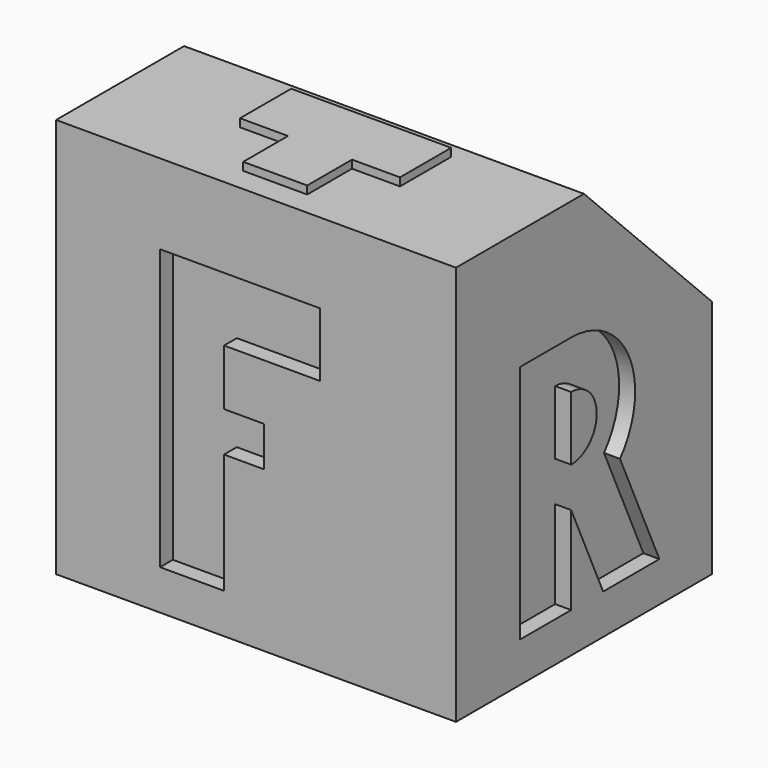
from build123d import *

# Parameters (mm, degrees)
F0_W      = 50
F0_H      = 50
F1_DEPTH  = 40
F2_SIZE   = 20
F4_DEPTH  = 2
F6_DEPTH  = 2
F8_DEPTH  = 2
F10_DEPTH = 1
F12_DEPTH = 2


with BuildPart() as f1:
    # F0 (on Front) → F1 (new body)
    with BuildSketch(Plane.XZ):
        with Locations((-25, 25)):
            Rectangle(F0_W, F0_H)
    extrude(amount=-F1_DEPTH)

    # F2
    f2_edges = [f1.edges().sort_by_distance(p)[0] for p in [
        (-25, 40, 50),
    ]]
    chamfer(f2_edges, length=F2_SIZE)

    # F3 (on face) → F4 (cut)
    with BuildSketch(Plane.XZ):
        Polygon((-37, 40), (-37, 5), (-29, 5), (-29, 20), (-24, 20), (-24, 25), (-29, 25), (-29, 32), (-17, 32), (-17, 40), align=None)
    extrude(amount=-F4_DEPTH, mode=Mode.SUBTRACT)

    # F5 (on face) → F6 (cut)
    with BuildSketch(Plane.YZ):
        with BuildLine():
            Line((10, 35), (10, 5))
            Line((10, 5), (18, 5))
            Line((18, 5), (18, 16))
            Line((18, 16), (23, 5))
            Line((23, 5), (31.78767, 5))
            Line((31.78767, 5), (25.633212, 18.539808))
            ThreePointArc((25.633212, 18.539808), (27.071988, 29.207023), (18, 35))
            Line((18, 35), (10, 35))
        make_face()
        with BuildLine():
            Line((18, 21), (18, 29))
            ThreePointArc((18, 29), (22, 25), (18, 21))
        make_face(mode=Mode.SUBTRACT)
    extrude(amount=-F6_DEPTH, mode=Mode.SUBTRACT)

    # F7 (on face) → F8 (cut)
    with BuildSketch(Plane(origin=(-50, 0, 0), x_dir=(0, -1, 0), z_dir=(-1, 0, 0))):
        Polygon((-22, 35), (-30, 35), (-30, 5), (-10, 5), (-10, 13), (-22, 13), align=None)
    extrude(amount=-F8_DEPTH, mode=Mode.SUBTRACT)

    # F9 (on face) → F10 (join)
    with BuildSketch(Plane.XY.offset(50)):
        Polygon((-29, 10), (-29, 3), (-21, 3), (-21, 10), (-15, 10), (-15, 18), (-35, 18), (-35, 10), align=None)
    extrude(amount=F10_DEPTH)

    # F11 (on face) → F12 (cut)
    with BuildSketch(Plane(origin=(0, 0, 0), x_dir=(1, 0, 0), z_dir=(0, 0, -1))):
        with BuildLine():
            Line((-35, -7), (-35, -37))
            Line((-35, -37), (-27, -37))
            ThreePointArc((-27, -37), (-18, -28), (-27, -19))
            ThreePointArc((-27, -19), (-21, -13), (-27, -7))
            Line((-27, -7), (-35, -7))
        make_face()
        with BuildLine():
            ThreePointArc((-27, -25), (-24, -28), (-27, -31))
            Line((-27, -31), (-27, -25))
        make_face(mode=Mode.SUBTRACT)
        with BuildLine():
            Line((-27, -15), (-27, -11))
            ThreePointArc((-27, -11), (-25, -13), (-27, -15))
        make_face(mode=Mode.SUBTRACT)
    extrude(amount=-F12_DEPTH, mode=Mode.SUBTRACT)


solid = f1.part
